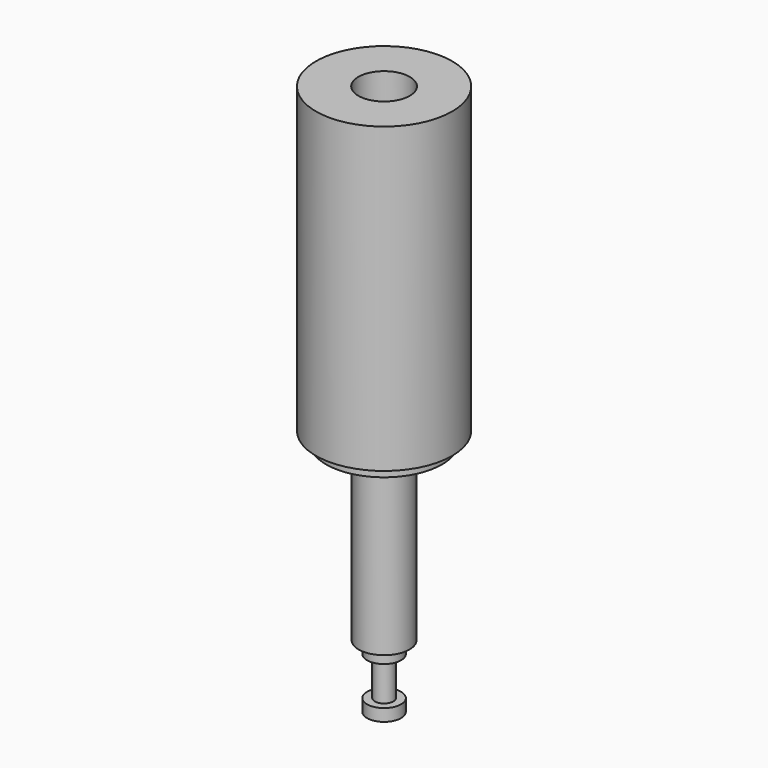
from build123d import *

# Parameters (mm, degrees)
PAD_DEPTH    = 0.89
SKETCH001_R  = 5.59
PAD001_DEPTH = 24.89
SKETCH002_R  = 2.0828
PAD002_DEPTH = 14.25
SKETCH003_R  = 1.395
PAD003_DEPTH = 1
SKETCH004_R  = 0.76
PAD004_DEPTH = 3.18
SKETCH005_R  = 1.395
PAD005_DEPTH = 1
SKETCH006_R  = 2.11
POCKET_DEPTH = 10


with BuildPart() as part:
    # Sketch → Pad (new body)
    with BuildSketch(Plane.XY):
        with BuildLine():
            Line((-2.375952, 4.1275), (2.375952, 4.1275))
            ThreePointArc((-2.375952, 4.1275), (0, -4.7625), (2.375952, 4.1275))
        make_face()
    extrude(amount=PAD_DEPTH)

    # Sketch001 (on Face4 of Pad) → Pad001 (join)
    with BuildSketch(Plane.XY.offset(0.89)):
        Circle(SKETCH001_R)
    extrude(amount=PAD001_DEPTH)

    # Sketch002 (on Face6 of Pad001) → Pad002 (join)
    with BuildSketch(Plane(origin=(0, 0, 0), x_dir=(1, 0, 0), z_dir=(0, 0, -1))):
        Circle(SKETCH002_R)
    extrude(amount=PAD002_DEPTH)

    # Sketch003 (on Face8 of Pad002) → Pad003 (join)
    with BuildSketch(Plane(origin=(0, 0, -14.25), x_dir=(1, 0, 0), z_dir=(0, 0, -1))):
        Circle(SKETCH003_R)
    extrude(amount=PAD003_DEPTH)

    # Sketch004 (on Face10 of Pad003) → Pad004 (join)
    with BuildSketch(Plane(origin=(0, 0, -15.25), x_dir=(1, 0, 0), z_dir=(0, 0, -1))):
        Circle(SKETCH004_R)
    extrude(amount=PAD004_DEPTH)

    # Sketch005 (on Face12 of Pad004) → Pad005 (join)
    with BuildSketch(Plane(origin=(0, 0, -18.43), x_dir=(1, 0, 0), z_dir=(0, 0, -1))):
        Circle(SKETCH005_R)
    extrude(amount=PAD005_DEPTH)

    # Sketch006 (on Face14 of Pad005) → Pocket (cut)
    with BuildSketch(Plane.XY.offset(25.78)):
        Circle(SKETCH006_R)
    extrude(amount=-POCKET_DEPTH, mode=Mode.SUBTRACT)


solid = part.part
